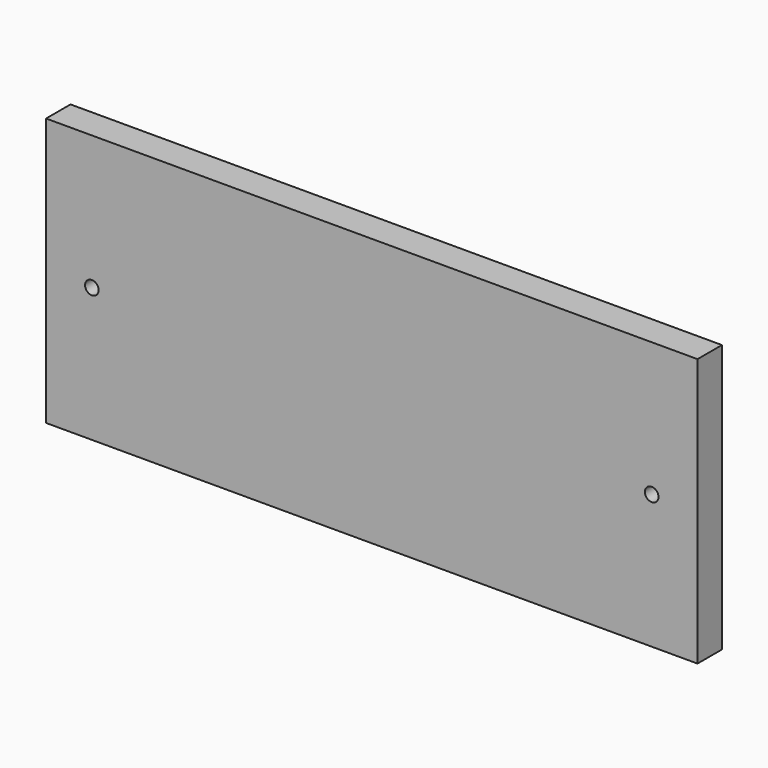
from build123d import *

# Parameters (mm, degrees)
F0_W     = 384
F0_H     = 158
F0_R     = 4
F1_DEPTH = 18


with BuildPart() as f1:
    # F0 (on Front) → F1 (new body)
    with BuildSketch(Plane.XZ):
        with Locations((5.291018, 25.287827)):
            Rectangle(F0_W, F0_H)
        with Locations((-159.708982, 25.287827)):
            Circle(F0_R, mode=Mode.SUBTRACT)
        with Locations((170.291018, 25.287827)):
            Circle(F0_R, mode=Mode.SUBTRACT)
    extrude(amount=-F1_DEPTH)


solid = f1.part
